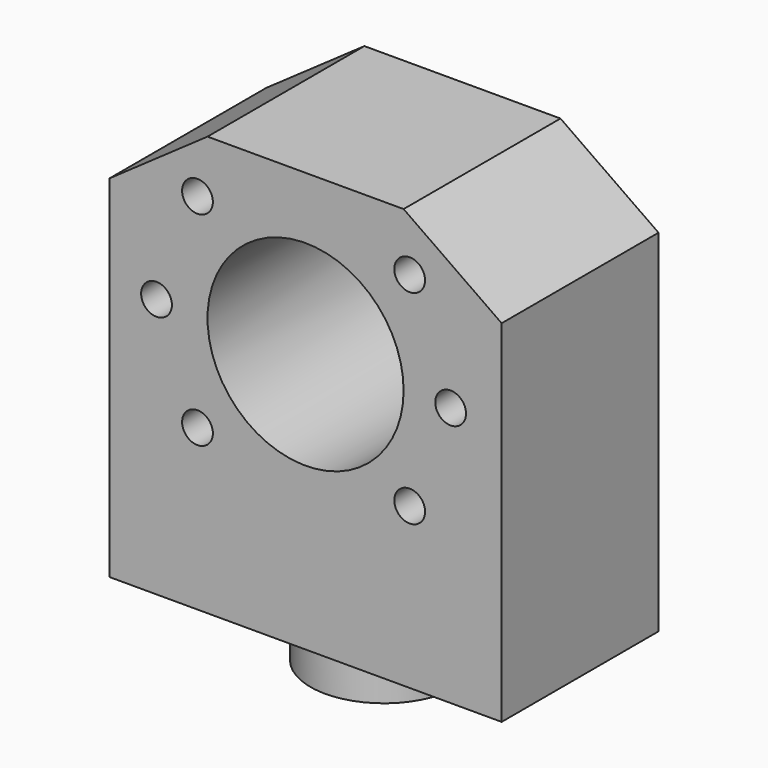
from build123d import *

# Parameters (mm, degrees)
F0_W       = 50.8
F0_H       = 25.4
F1_DEPTH   = 27.178
F2_SIZE2   = 12.7
F2_SIZE    = 8.89
F2_2_SIZE2 = 12.7
F2_2_SIZE  = 8.89
F4_R       = 1.9939
F5_DEPTH   = 25.401
F3_R       = 12.7
F6_DEPTH   = 25.401
F7_R       = 9.5204472643
F8_DEPTH   = 6.35
F9_R       = 3.2639
F10_DEPTH  = 12.7


with BuildPart() as f1:
    # F0 (on Top) → F1 (new body, symmetric)
    with BuildSketch(Plane.XY):
        Rectangle(F0_W, F0_H)
    extrude(amount=F1_DEPTH, both=True)

    # F2
    f2_edges = [f1.edges().sort_by_distance(p)[0] for p in [
        (-25.4, 0, 27.178),
    ]]
    f2_side = f1.faces().sort_by_distance((-25.4, 0, 0))[0]
    chamfer(f2_edges, length=F2_SIZE, length2=F2_SIZE2, reference=f2_side)

    # F2#2
    f2_2_edges = [f1.edges().sort_by_distance(p)[0] for p in [
        (25.4, 0, 27.178),
    ]]
    f2_2_side = f1.faces().sort_by_distance((25.4, 0, 0))[0]
    chamfer(f2_2_edges, length=F2_2_SIZE, length2=F2_2_SIZE2, reference=f2_2_side)

    # F4 (on face) → F5 (cut, through all)
    with BuildSketch(Plane.XZ.offset(12.7)):
        with Locations((-14.0012001136, 19.9476279852)):
            Circle(F4_R)
        with Locations((13.4866058279, 19.9476279852)):
            Circle(F4_R)
        with Locations((18.7927028571, 6.477)):
            Circle(F4_R)
        with Locations((13.4866058279, -6.4347624395)):
            Circle(F4_R)
        with Locations((-14.0012001136, -6.4347624395)):
            Circle(F4_R)
        with Locations((-19.3072971429, 6.477)):
            Circle(F4_R)
    extrude(amount=-F5_DEPTH, mode=Mode.SUBTRACT)

    # F3 (on face) → F6 (cut, through all)
    with BuildSketch(Plane.XZ.offset(12.7)):
        with Locations((0, 6.477)):
            Circle(F3_R)
    extrude(amount=-F6_DEPTH, mode=Mode.SUBTRACT)

    # F7 (on face) → F8 (join)
    with BuildSketch(Plane(origin=(0, 0, -27.178), x_dir=(1, 0, 0), z_dir=(0, 0, -1))):
        Circle(F7_R)
    extrude(amount=F8_DEPTH)

    # F9 (on face) → F10 (cut)
    with BuildSketch(Plane(origin=(0, 0, -33.528), x_dir=(1, 0, 0), z_dir=(0, 0, -1))):
        Circle(F9_R)
    extrude(amount=-F10_DEPTH, mode=Mode.SUBTRACT)


solid = f1.part
